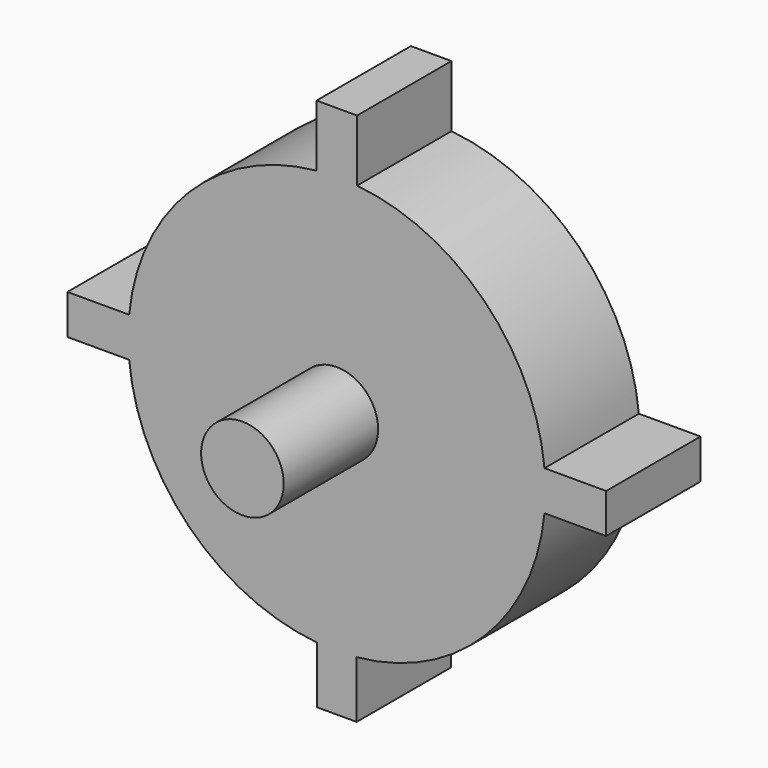
from build123d import *

# Parameters (mm, degrees)
F1_DEPTH = 25
F2_D     = 17.5
F3_R     = 8.75
F4_DEPTH = 25


with BuildPart() as f1:
    # F0 (on Front) → F1 (new body)
    with BuildSketch(Plane.XZ):
        with BuildLine():
            Line((4.2971530929, 43.9991094172), (4.2971530929, 57.0774041116))
            Line((4.2971530929, 57.0774041116), (-4.2971530929, 57.0774041116))
            Line((-4.2971530929, 57.0774041116), (-4.2971530929, 43.9991094172))
            ThreePointArc((-4.2971530929, 43.9991094172), (-31.2937936408, 31.2263611998), (-44.0082766083, 4.2022308573))
            Line((-44.0082766083, 4.2022308573), (-57.0865713027, 4.2022308573))
            Line((-57.0865713027, 4.2022308573), (-57.0865713027, -4.2022308573))
            Line((-57.0865713027, -4.2022308573), (-44.0082766083, -4.2022308573))
            ThreePointArc((-44.0082766083, -4.2022308573), (-31.2600956029, -31.2600956029), (-4.2022308573, -44.0082766083))
            Line((-4.2022308573, -44.0082766083), (-4.2022308573, -56.0833216488))
            Line((-4.2022308573, -56.0833216488), (4.2022308573, -56.0833216488))
            Line((4.2022308573, -56.0833216488), (4.2022308573, -44.0082766083))
            ThreePointArc((4.2022308573, -44.0082766083), (31.2600956029, -31.2600956029), (44.0082766083, -4.2022308573))
            Line((44.0082766083, -4.2022308573), (57.0865713027, -4.2022308573))
            Line((57.0865713027, -4.2022308573), (57.0865713027, 4.2022308573))
            Line((57.0865713027, 4.2022308573), (44.0082766083, 4.2022308573))
            ThreePointArc((44.0082766083, 4.2022308573), (31.2937936408, 31.2263611998), (4.2971530929, 43.9991094172))
        make_face()
    extrude(amount=F1_DEPTH)

    # F2 (through all)
    with Locations(Plane(origin=(0, 0, 0), x_dir=(1, 0, 0), z_dir=(0, 1, 0))):
        with Locations((0, 0)):
            Hole(F2_D / 2)


with BuildPart() as f4:
    # F3 (on face) → F4 (new body)
    with BuildSketch(Plane.XZ.offset(25)):
        Circle(F3_R)
    extrude(amount=F4_DEPTH)


solid = Compound([f1.part, f4.part])
